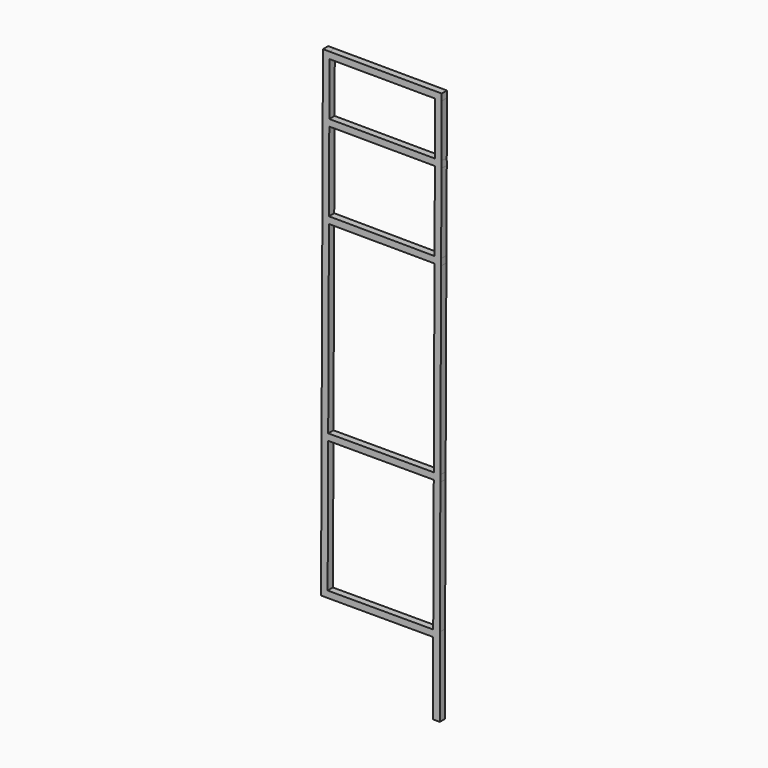
from build123d import *

# Parameters (mm, degrees)
F1_DEPTH = 12.5


with BuildPart() as f1:
    # F0 (on Front) → F1 (new body, symmetric)
    with BuildSketch(Plane.XZ):
        Polygon((-205.444881, -174.193871), (-207.534229, -699.193871), (-207.534229, -724.193871), (-182.534427, -724.293363), (217.465573, -724.293363), (217.465573, -999.293363), (242.465355, -999.39783), (242.465355, -699.39783), (244.554703, -199.39783), (244.554722, -174.393082), (247.337235, 523.189536), (247.439954, 547.847293), (248.814853, 848.764804), (248.732482, 873.779536), (249.529363, 1074.015458), (249.529363, 1099.015458), (-175.370947, 1100.706637), (-200.370749, 1100.806129), (-201.266184, 875.806129), (-202.55959, 550.806129), align=None)
        Polygon((-182.534427, -699.293363), (-180.445079, -199.293363), (219.554921, -199.293363), (217.465573, -699.293363), align=None, mode=Mode.SUBTRACT)
        Polygon((219.554921, -174.293363), (-180.445079, -174.293363), (-177.662566, 524.88114), (222.337434, 523.289255), align=None, mode=Mode.SUBTRACT)
        Polygon((222.440212, 547.96088), (-177.559788, 550.706637), (-176.36681, 850.471637), (223.815114, 848.879028), align=None, mode=Mode.SUBTRACT)
        Polygon((223.73268, 873.879028), (-176.266382, 875.706637), (-175.470439, 1075.706835), (224.529561, 1074.11495), align=None, mode=Mode.SUBTRACT)
    extrude(amount=F1_DEPTH, both=True)


solid = f1.part
